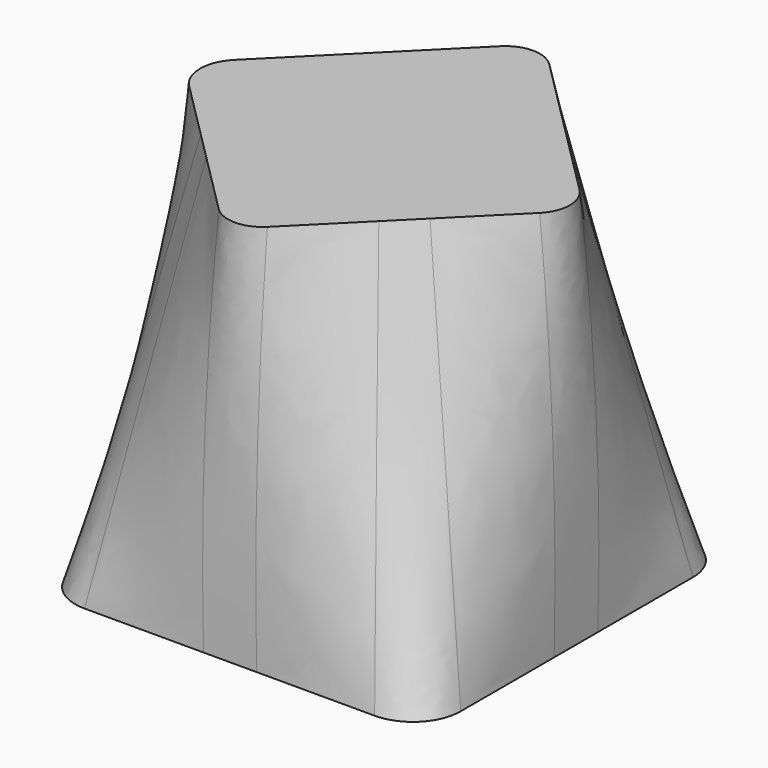
from build123d import *

# Parameters (mm, degrees)
SKETCH002_R = 15


with BuildPart() as part:
    # Sketch → AdditiveLoft section 0
    with BuildSketch(Plane.XY.offset(-10)):
        with BuildLine():
            Line((-15, 10.757359), (-15, -11.357359))
            ThreePointArc((-15, -11.357359), (-13.933095, -13.933095), (-11.357359, -15))
            Line((-11.357359, -15), (11.272507, -15))
            ThreePointArc((11.272507, -15), (13.908243, -13.908243), (15, -11.272507))
            Line((15, -11.272507), (15, 11.357359))
            ThreePointArc((15, 11.357359), (13.933095, 13.933095), (11.357359, 15))
            Line((11.357359, 15), (-10.757359, 15))
            ThreePointArc((-10.757359, 15), (-13.757359, 13.757359), (-15, 10.757359))
        make_face()
    # Sketch002 → AdditiveLoft section 1
    with BuildSketch(Plane(origin=(0, 0, 5), x_dir=(0.707107, 0.707107, 0), z_dir=(0, 0, 1))):
        Circle(SKETCH002_R)
    # Sketch001 → AdditiveLoft section 2
    with BuildSketch(Plane(origin=(0, 0, 20), x_dir=(0.707107, 0.707107, 0), z_dir=(0, 0, 1))):
        with BuildLine():
            Line((-11.057359, 7.929866), (-11.057359, -8.37216))
            ThreePointArc((-11.057359, -8.37216), (-10.270882, -10.270882), (-8.37216, -11.057359))
            Line((-8.37216, -11.057359), (8.30961, -11.057359))
            ThreePointArc((8.30961, -11.057359), (10.252562, -10.252562), (11.057359, -8.30961))
            Line((11.057359, -8.30961), (11.057359, 8.37216))
            ThreePointArc((11.057359, 8.37216), (10.270882, 10.270882), (8.37216, 11.057359))
            Line((8.37216, 11.057359), (-7.929866, 11.057359))
            ThreePointArc((-7.929866, 11.057359), (-10.141338, 10.141338), (-11.057359, 7.929866))
        make_face()
    loft()


solid = part.part
